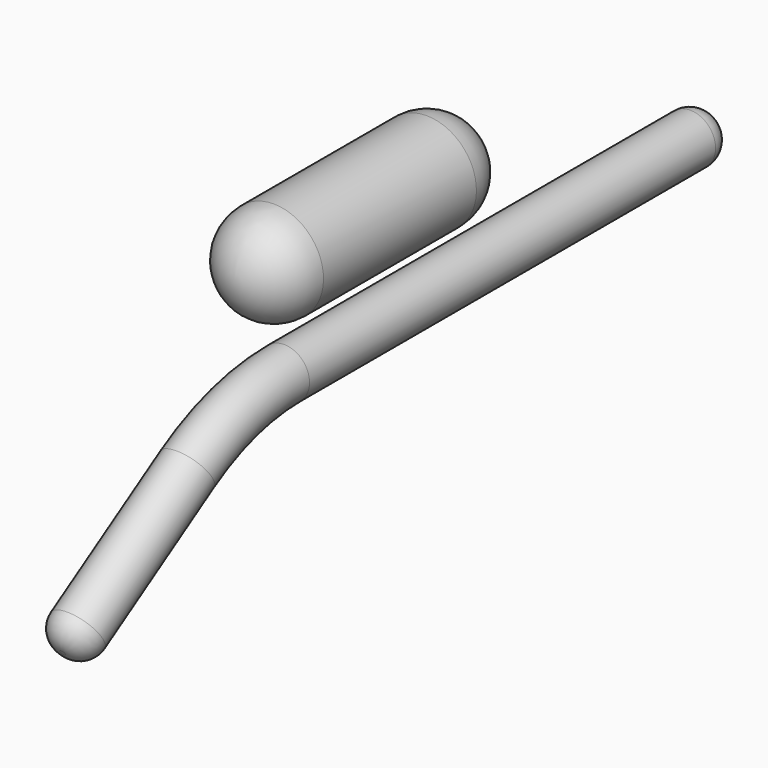
from build123d import *

# Parameters (mm, degrees)
F2_R = 1.4175279042
F4_R = 1.27


with BuildPart() as f3:
    # F3: sweep along a path in F0
    with BuildLine(Plane.YZ) as f3_path:
        Line((21.2361272424, -0.4991888418), (-8.4437446235, -0.4991888418))
        ThreePointArc((-8.4437446235, -0.4991888418), (-11.9710974737, -0.9988699168), (-15.2208831642, -2.4585932717))
        Line((-15.2208831642, -2.4585932717), (-23.9497648395, -7.9663735463))
    # F2 (on line) → F3 (sweep)
    with BuildSketch(Plane(origin=(0, 21.2361272424, 0), x_dir=(-1, 0, 0), z_dir=(0, 1, 0))):
        with Locations((0, -0.4980200902)):
            Circle(F2_R)
    sweep(path=f3_path.line)

    # F4
    f4_edges = [f3.edges().sort_by_distance(p)[0] for p in [
        (1.417528, 21.236127, -0.49802),
        (1.417528, -23.950389, -7.965385),
    ]]
    fillet(f4_edges, radius=F4_R)


with BuildPart() as f6:
    # F5 (on Right) → F6 (revolve)
    with BuildSketch(Plane.YZ):
        with BuildLine():
            Line((-11.9644199369, 5.3615253419), (4.3064690763, 5.3615253419))
            ThreePointArc((4.3064690763, 5.3615253419), (3.4902974308, 7.3319379883), (1.5198847788, 8.1481096204))
            Line((1.5198847788, 8.1481096204), (-9.1778356773, 8.1481095477))
            ThreePointArc((-9.1778356773, 8.1481095477), (-11.148248279, 7.3319379279), (-11.9644199369, 5.3615253419))
        make_face()
    revolve(axis=Axis((0, -2.9575966764, 5.3615253419), (0, -1, 0)))


solid = Compound([f3.part, f6.part])
